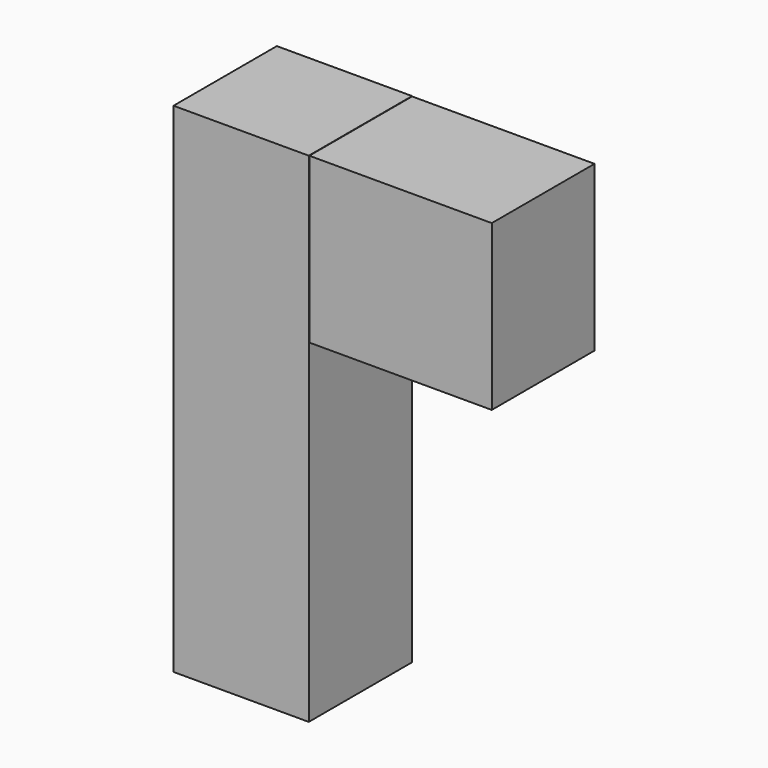
from build123d import *

# Parameters (mm, degrees)
F0_W     = 68.9146369696
F0_H     = 65.8044293523
F1_DEPTH = 254
F3_W     = 65.4313750565
F3_H     = 83.809107542
F4_DEPTH = 92.9452851415


with BuildPart() as f1:
    # F0 (on Top) → F1 (new body)
    with BuildSketch(Plane.XY):
        with Locations((34.4573184848, -32.9022146761)):
            Rectangle(F0_W, F0_H)
    extrude(amount=F1_DEPTH)

    # F3 (on face) → F4 (join)
    with BuildSketch(Plane.YZ.offset(68.9146369696)):
        with Locations((-32.7156875283, 211.9214683771)):
            Rectangle(F3_W, F3_H)
        with Locations((-32.7156875283, 211.9214683771)):
            Rectangle(F3_W, F3_H)
    extrude(amount=F4_DEPTH)


solid = f1.part
